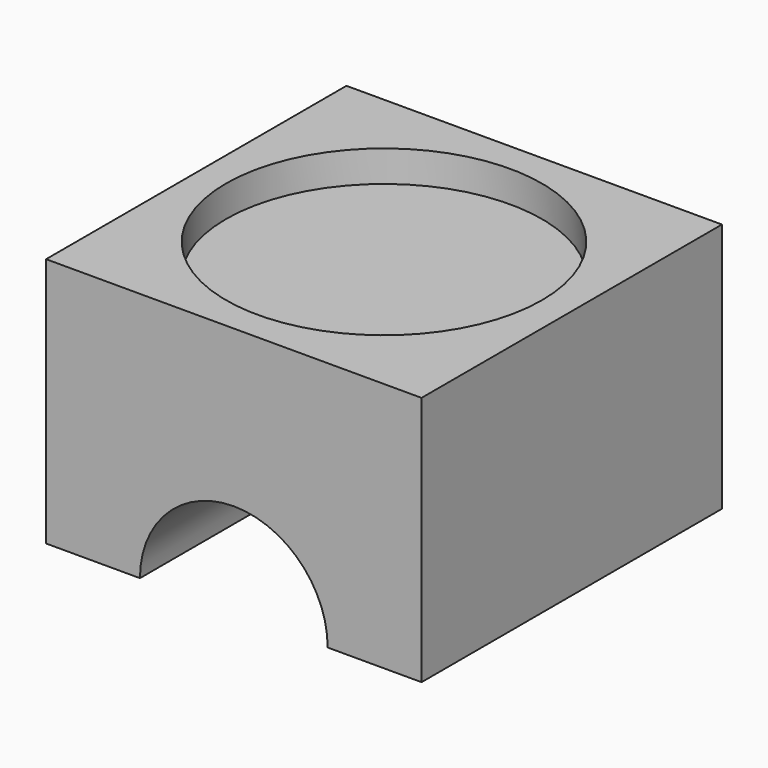
from build123d import *

# Parameters (mm, degrees)
F1_DEPTH = 12
F2_R     = 5.05
F3_DEPTH = 1


with BuildPart() as f1:
    # F0 (on Front) → F1 (new body)
    with BuildSketch(Plane.XZ):
        with BuildLine():
            Line((6, 4), (-6, 4))
            Line((-6, 4), (-6, -4))
            Line((-6, -4), (-3, -4))
            ThreePointArc((-3, -4), (0, -1.000006), (3, -4))
            Line((3, -4), (6, -4))
            Line((6, -4), (6, 4))
        make_face()
    extrude(amount=F1_DEPTH)

    # F2 (on face) → F3 (cut)
    with BuildSketch(Plane.XY.offset(4)):
        with Locations((0, -6)):
            Circle(F2_R)
    extrude(amount=-F3_DEPTH, mode=Mode.SUBTRACT)


solid = f1.part
